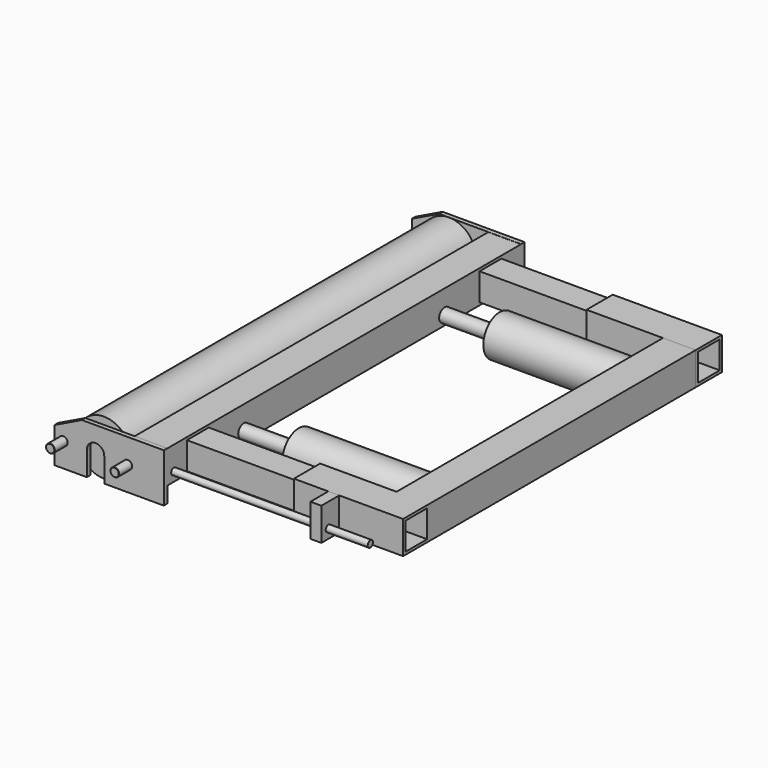
from build123d import *

# Parameters (mm, degrees)
F1_DEPTH  = 8
F2_R      = 8
F3_DEPTH  = 30
F4_SIZE   = 0.5
F5_W      = 60
F5_H      = 60
F6_DEPTH  = 405
F7_W      = 50
F7_H      = 50
F8_DEPTH  = 200
F10_W     = 60
F10_H     = 60
F10_W_2   = 50
F10_H_2   = 50
F11_DEPTH = 200
F13_W     = 60
F13_H     = 60
F14_DEPTH = 610
F15_W     = 60
F15_H     = 60
F15_W_2   = 50
F15_H_2   = 50
F16_DEPTH = 200
F17_R     = 6
F18_DEPTH = 360
F19_DEPTH = 360
F20_W     = 20
F20_H     = 60
F21_DEPTH = 41
F22_R     = 12.5
F23_DEPTH = 101
F24_R     = 37.5
F24_R_2   = 12.5
F25_DEPTH = 237
F26_R     = 12.5
F27_DEPTH = 101
F28_R     = 37.5
F28_R_2   = 12.5
F29_DEPTH = 241
F31_R     = 50
F32_DEPTH = 790


with BuildPart() as f1:
    # F0 (on Front) → F1 (new body)
    with BuildSketch(Plane.XZ):
        with BuildLine():
            Line((132.5873207722, 43.2327152074), (-17.4126792278, 43.2327152074))
            Line((-17.4126792278, 43.2327152074), (-67.4126792278, 18.9871956075))
            Line((-67.4126792278, 18.9871956075), (-67.4126792278, -46.0128043925))
            Line((-67.4126792278, -46.0128043925), (-8.3917075603, -46.0128043925))
            Line((-8.3917075603, -46.0128043925), (-8.3917075603, -2.5862191913))
            ThreePointArc((-8.3917075603, -2.5862191913), (7.5873207722, 14.2327152074), (23.5663491047, -2.5862191913))
            Line((23.5663491047, -2.5862191913), (23.5663491047, -46.0128043925))
            Line((23.5663491047, -46.0128043925), (132.5873207722, -46.0128043925))
            Line((132.5873207722, -46.0128043925), (132.5873207722, 43.2327152074))
        make_face()
    extrude(amount=-F1_DEPTH)

    # F2 (on face) → F3 (join)
    with BuildSketch(Plane.XZ):
        with Locations((-51.4126792278, -1.7672847926)):
            Circle(F2_R)
        with Locations((66.5873207722, -1.7672847926)):
            Circle(F2_R)
    extrude(amount=F3_DEPTH)

    # F4
    f4_edges = [f1.edges().sort_by_distance(p)[0] for p in [
        (-59.412679, -30, -1.767285),
        (58.587321, -30, -1.767285),
    ]]
    chamfer(f4_edges, length=F4_SIZE)

    # F5 (on face) → F6 (join)
    with BuildSketch(Plane(origin=(0, 8, 0), x_dir=(-1, 0, 0), z_dir=(0, 1, 0))):
        with Locations((-102.5873207722, 12.9871956075)):
            Rectangle(F5_W, F5_H)
    extrude(amount=F6_DEPTH)

    # F7 (on face) → F8 (join)
    with BuildSketch(Plane.YZ.offset(132.5873207722)):
        with Locations((78, 12.9871956075)):
            Rectangle(F7_W, F7_H)
    extrude(amount=F8_DEPTH)

    # F12: F1 across face


with BuildPart() as f11:
    # F10 (on face) → F11 (new body)
    with BuildSketch(Plane.YZ.offset(332.5873207722)):
        with Locations((78, 12.9871956075)):
            Rectangle(F10_W, F10_H)
        with Locations((78, 12.9871956075)):
            Rectangle(F10_W_2, F10_H_2, mode=Mode.SUBTRACT)
    extrude(amount=F11_DEPTH)

    # F13 (on face) → F14 (join)
    with BuildSketch(Plane(origin=(0, 108, 0), x_dir=(-1, 0, 0), z_dir=(0, 1, 0))):
        with Locations((-502.5873207722, 12.9871956075)):
            Rectangle(F13_W, F13_H)
    extrude(amount=F14_DEPTH)


with BuildPart() as f1_1:
    add(f1.part)
    add(f1.part.mirror(Plane(origin=(102.5873207722, 413, 12.9871956075), x_dir=(-1, 0, 0), z_dir=(0, 1, 0))))

    # F17 (on face) → F18 (join)
    with BuildSketch(Plane.YZ.offset(132.5873207722)):
        with Locations((23, 0)):
            Circle(F17_R)
    extrude(amount=F18_DEPTH)

    # F17 (on face) → F19 (join)
    with BuildSketch(Plane.YZ.offset(132.5873207722)):
        with Locations((803, 0)):
            Circle(F17_R)
    extrude(amount=F19_DEPTH)

    # F22 (on face) → F23 (join)
    with BuildSketch(Plane.YZ.offset(132.5873207722)):
        with Locations((183, 0)):
            Circle(F22_R)
    extrude(amount=F23_DEPTH)

    # F26 (on face) → F27 (join)
    with BuildSketch(Plane.YZ.offset(132.5873207722)):
        with Locations((643, 0)):
            Circle(F26_R)
    extrude(amount=F27_DEPTH)


    add(f11.part)  # F29 merges F11
    # F28 (on face) → F29 (join)
    with BuildSketch(Plane.YZ.offset(233.5873207722)):
        with Locations((643, 0)):
            Circle(F28_R)
        with Locations((643, 0)):
            Circle(F28_R_2, mode=Mode.SUBTRACT)
    extrude(amount=F29_DEPTH)


with BuildPart() as f16:
    # F15 (on face) → F16 (new body)
    with BuildSketch(Plane.YZ.offset(332.5873207722)):
        with Locations((748, 12.9871956075)):
            Rectangle(F15_W, F15_H)
        with Locations((748, 12.9871956075)):
            Rectangle(F15_W_2, F15_H_2, mode=Mode.SUBTRACT)
    extrude(amount=F16_DEPTH)


with BuildPart() as f21:
    # F20 (on face) → F21 (new body)
    with BuildSketch(Plane.XZ.offset(-48)):
        with Locations((405.5948352814, 12.9871956075)):
            Rectangle(F20_W, F20_H)
    extrude(amount=F21_DEPTH)


with BuildPart() as f25:
    # F24 (on face) → F25 (new body)
    with BuildSketch(Plane.YZ.offset(233.5873207722)):
        with Locations((183, 0)):
            Circle(F24_R)
        with Locations((183, 0)):
            Circle(F24_R_2, mode=Mode.SUBTRACT)
    extrude(amount=F25_DEPTH)


with BuildPart() as f32:
    # F31 (on offset) → F32 (new body)
    with BuildSketch(Plane.XZ.offset(-808)):
        with Locations((8.5663491047, 0)):
            Circle(F31_R)
    extrude(amount=F32_DEPTH)


solid = Compound([f1_1.part, f16.part, f21.part, f25.part, f32.part])
